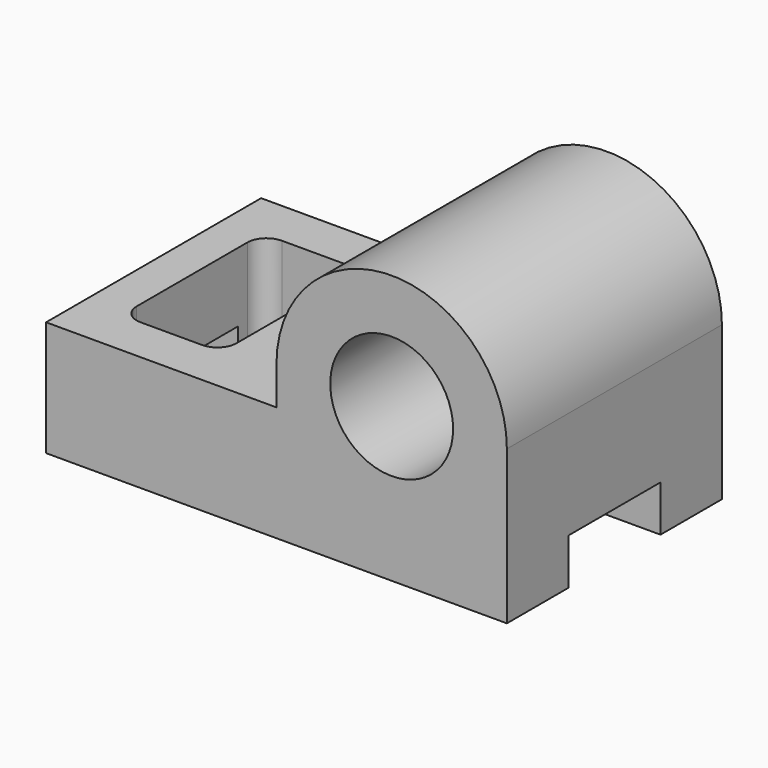
from build123d import *

# Parameters (mm, degrees)
F0_R     = 16
F1_DEPTH = 70
F3_DEPTH = 30.001
F4_W     = 30
F4_H     = 12
F5_DEPTH = 120.001


with BuildPart() as f1:
    # F0 (on Front) → F1 (new body)
    with BuildSketch(Plane.XZ):
        with BuildLine():
            Line((-60, -35), (60, -35))
            Line((60, -35), (60, 5))
            ThreePointArc((60, 5), (30, 35), (0, 5))
            Line((0, 5), (0, -5))
            Line((0, -5), (-60, -5))
            Line((-60, -5), (-60, -35))
        make_face()
        with Locations((30, 5)):
            Circle(F0_R, mode=Mode.SUBTRACT)
    extrude(amount=F1_DEPTH)

    # F2 (on face) → F3 (cut, through all)
    with BuildSketch(Plane.XY.offset(-5)):
        with BuildLine():
            Line((-45, -58), (-29, -58))
            ThreePointArc((-29, -58), (-25.464466, -56.535534), (-24, -53))
            Line((-24, -53), (-24, -17))
            ThreePointArc((-24, -17), (-25.464466, -13.464466), (-29, -12))
            Line((-29, -12), (-45, -12))
            ThreePointArc((-45, -12), (-48.535534, -13.464466), (-50, -17))
            Line((-50, -17), (-50, -53))
            ThreePointArc((-50, -53), (-48.535534, -56.535534), (-45, -58))
        make_face()
    extrude(amount=-F3_DEPTH, mode=Mode.SUBTRACT)

    # F4 (on face) → F5 (cut, through all)
    with BuildSketch(Plane(origin=(-60, 0, 0), x_dir=(0, -1, 0), z_dir=(-1, 0, 0))):
        with Locations((35, -29)):
            Rectangle(F4_W, F4_H)
    extrude(amount=-F5_DEPTH, mode=Mode.SUBTRACT)


solid = f1.part
